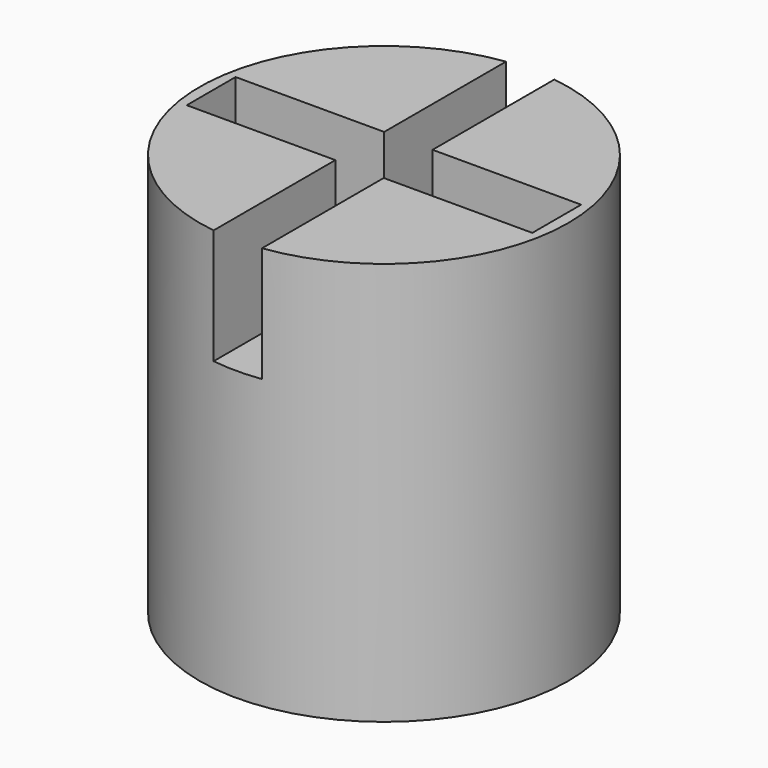
from build123d import *

# Parameters (mm, degrees)
SKETCH_R        = 16
PAD_DEPTH       = 35
SKETCH001_R     = 14
POCKET_DEPTH    = 23
SKETCH002_R     = 3.98
PAD001_DEPTH    = 10
SKETCH003_W     = 30
SKETCH003_H     = 5.3
POCKET001_DEPTH = 10
SKETCH004_W     = 4.2
SKETCH004_H     = 32.681076
POCKET002_DEPTH = 10


with BuildPart() as part:
    # Sketch → Pad (new body)
    with BuildSketch(Plane.XY):
        Circle(SKETCH_R)
    extrude(amount=PAD_DEPTH)

    # Sketch001 (on Face2 of Pad) → Pocket (cut)
    with BuildSketch(Plane(origin=(0, 0, 0), x_dir=(1, 0, 0), z_dir=(0, 0, -1))):
        Circle(SKETCH001_R)
    extrude(amount=-POCKET_DEPTH, mode=Mode.SUBTRACT)

    # Sketch002 (on Face5 of Pocket) → Pad001 (join)
    with BuildSketch(Plane(origin=(0, 0, 23), x_dir=(1, 0, 0), z_dir=(0, 0, -1))):
        Circle(SKETCH002_R)
    extrude(amount=PAD001_DEPTH)

    # Sketch003 (on Face3 of Pad001) → Pocket001 (cut)
    with BuildSketch(Plane.XY.offset(35)):
        Rectangle(SKETCH003_W, SKETCH003_H)
    extrude(amount=-POCKET001_DEPTH, mode=Mode.SUBTRACT)

    # Sketch004 (on Face3 of Pocket001) → Pocket002 (cut)
    with BuildSketch(Plane.XY.offset(35)):
        with Locations((0, -0.015375)):
            Rectangle(SKETCH004_W, SKETCH004_H)
    extrude(amount=-POCKET002_DEPTH, mode=Mode.SUBTRACT)


solid = part.part
